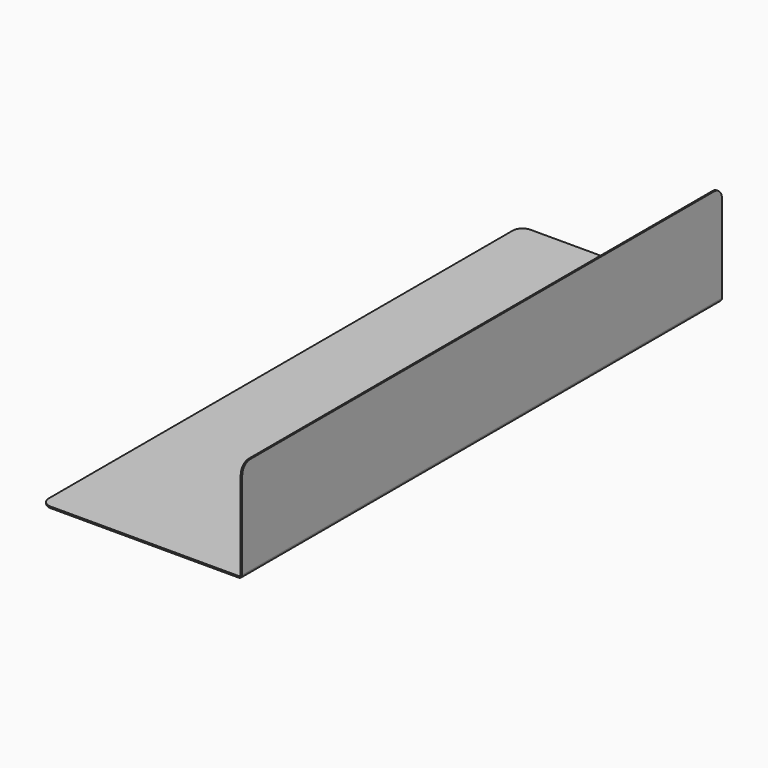
from build123d import *

# Parameters (mm, degrees)
F1_DEPTH = 300
F2_R     = 10


with BuildPart() as f1:
    # F0 (on Front) → F1 (new body, symmetric)
    with BuildSketch(Plane.XZ):
        with BuildLine():
            Line((-201.5, 1.5), (-201.5, 0))
            Line((-201.5, 0), (-3.5, 0))
            ThreePointArc((-3.5, 0), (-1.025126, 1.025126), (0, 3.5))
            Line((0, 3.5), (0, 101.5))
            Line((0, 101.5), (-1.5, 101.5))
            Line((-1.5, 101.5), (-1.5, 3.5))
            ThreePointArc((-1.5, 3.5), (-2.085786, 2.085786), (-3.5, 1.5))
            Line((-3.5, 1.5), (-201.5, 1.5))
        make_face()
    extrude(amount=F1_DEPTH, both=True)

    # F2
    f2_edges = [f1.edges().sort_by_distance(p)[0] for p in [
        (-0.75, -300, 101.5),
        (-0.75, 300, 101.5),
        (-201.5, -300, 0.75),
        (-201.5, 300, 0.75),
    ]]
    fillet(f2_edges, radius=F2_R)


solid = f1.part
